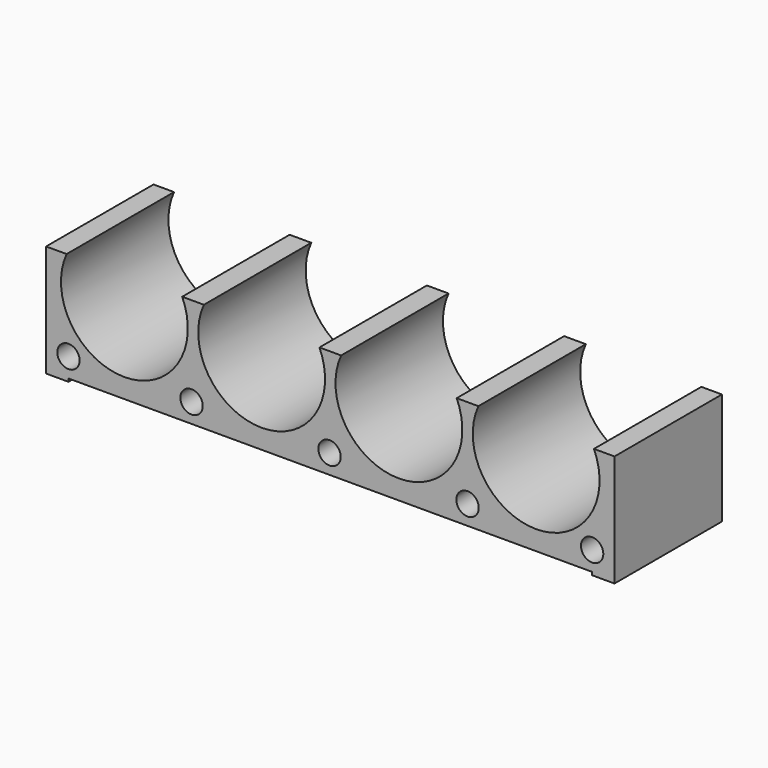
from build123d import *

# Parameters (mm, degrees)
F1_DEPTH = 22.86
F2_R     = 1.905
F3_DEPTH = 50.8
F4_W     = 89.154
F4_H     = 0.508
F5_DEPTH = 19.05


with BuildPart() as f1:
    # F0 (on Front) → F1 (new body)
    with BuildSketch(Plane.XZ):
        with BuildLine():
            Line((0, 19.05), (0, 0))
            Line((0, 0), (96.774, 0))
            Line((96.774, 0), (96.774, 19.05))
            Line((96.774, 19.05), (93.276378, 19.05))
            ThreePointArc((93.276378, 19.05), (83.439, 3.81), (73.601622, 19.05))
            Line((73.601622, 19.05), (69.908378, 19.05))
            ThreePointArc((69.908378, 19.05), (60.071, 3.81), (50.233622, 19.05))
            Line((50.233622, 19.05), (46.540378, 19.05))
            ThreePointArc((46.540378, 19.05), (36.703, 3.81), (26.865622, 19.05))
            Line((26.865622, 19.05), (23.172378, 19.05))
            ThreePointArc((23.172378, 19.05), (13.335, 3.81), (3.497622, 19.05))
            Line((3.497622, 19.05), (0, 19.05))
        make_face()
    extrude(amount=F1_DEPTH)

    # F2 (on face) → F3 (cut)
    with BuildSketch(Plane.XZ.offset(22.86)):
        with Locations((24.765, 3.81)):
            Circle(F2_R)
        with Locations((48.26, 3.81)):
            Circle(F2_R)
        with Locations((71.755, 3.81)):
            Circle(F2_R)
        with Locations((3.81, 3.81)):
            Circle(F2_R)
        with Locations((92.964, 3.81)):
            Circle(F2_R)
    extrude(amount=-F3_DEPTH, mode=Mode.SUBTRACT)

    # F4 (on face) → F5 (cut)
    with BuildSketch(Plane.XZ.offset(22.86)):
        with Locations((48.387, 0.254)):
            Rectangle(F4_W, F4_H)
    extrude(amount=-F5_DEPTH, mode=Mode.SUBTRACT)


solid = f1.part
